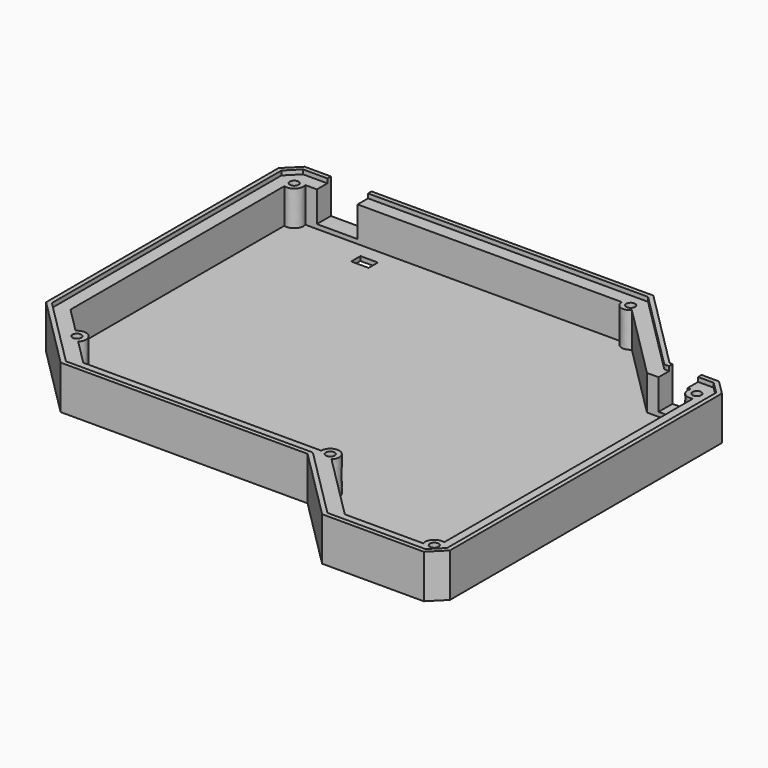
from build123d import *

# Parameters (mm, degrees)
PAD001_DEPTH    = 15
THICKNESS_T     = -1.5
PAD002_DEPTH    = 13.5
POCKET002_DEPTH = 12
POCKET003_DEPTH = 8
SKETCH006_W     = 14
SKETCH006_H     = 12
POCKET004_DEPTH = 10
SKETCH007_W     = 10
SKETCH007_H     = 12
POCKET005_DEPTH = 10
SKETCH011_W     = 6
SKETCH011_H     = 4
POCKET006_DEPTH = 15.001


with BuildPart() as part:
    # Sketch003 → Pad001 (new body)
    with BuildSketch(Plane.XY):
        with BuildLine():
            add(Edge.make_bspline(
                [(149.9997, -167.99814), (184.99836, -167.99814)],
                knots=[0, 0, 13779, 13779], degree=1))
            add(Edge.make_bspline(
                [(184.99836, -167.99814), (189.99962, -162.99942)],
                knots=[0, 0, 2783.879487, 2783.879487], degree=1))
            add(Edge.make_bspline(
                [(189.99962, -162.99942), (189.99962, -45.9994)],
                knots=[0, 0, 46063, 46063], degree=1))
            add(Edge.make_bspline(
                [(189.99962, -45.9994), (184.99836, -40.99814)],
                knots=[0, 0, 2784.586504, 2784.586504], degree=1))
            add(Edge.make_bspline(
                [(184.99836, -40.99814), (167.99814, -40.99814)],
                knots=[0, 0, 6693, 6693], degree=1))
            add(Edge.make_bspline(
                [(167.99814, -40.99814), (139.99972, -12.99972)],
                knots=[0, 0, 15588.876098, 15588.876098], degree=1))
            add(Edge.make_bspline(
                [(139.99972, -12.99972), (19.99996, -12.99972)],
                knots=[0, 0, 47244, 47244], degree=1))
            add(Edge.make_bspline(
                [(19.99996, -12.99972), (14.9987, -17.99844)],
                knots=[0, 0, 2783.879487, 2783.879487], degree=1))
            add(Edge.make_bspline(
                [(14.9987, -17.99844), (14.9987, -117.99824)],
                knots=[0, 0, 39370, 39370], degree=1))
            add(Edge.make_bspline(
                [(14.9987, -117.99824), (39.99992, -142.99946)],
                knots=[0, 0, 13920.104094, 13920.104094], degree=1))
            add(Edge.make_bspline(
                [(39.99992, -142.99946), (124.99848, -142.99946)],
                knots=[0, 0, 33464, 33464], degree=1))
            add(Edge.make_bspline(
                [(124.99848, -142.99946), (149.9997, -167.99814)],
                knots=[0, 0, 13919.397006, 13919.397006], degree=1))
        make_face()
    extrude(amount=PAD001_DEPTH)

    # Thickness
    thickness_openings = [part.faces().sort_by_distance(p)[0] for p in [
        (104.008372, -83.992523, 15),
    ]]
    offset(amount=THICKNESS_T, openings=thickness_openings)

    # Sketch003 → Pad002 (join)
    with BuildSketch(Plane.XY):
        with BuildLine():
            add(Edge.make_bspline(
                [(149.9997, -167.99814), (184.99836, -167.99814)],
                knots=[0, 0, 13779, 13779], degree=1))
            add(Edge.make_bspline(
                [(184.99836, -167.99814), (189.99962, -162.99942)],
                knots=[0, 0, 2783.879487, 2783.879487], degree=1))
            add(Edge.make_bspline(
                [(189.99962, -162.99942), (189.99962, -45.9994)],
                knots=[0, 0, 46063, 46063], degree=1))
            add(Edge.make_bspline(
                [(189.99962, -45.9994), (184.99836, -40.99814)],
                knots=[0, 0, 2784.586504, 2784.586504], degree=1))
            add(Edge.make_bspline(
                [(184.99836, -40.99814), (167.99814, -40.99814)],
                knots=[0, 0, 6693, 6693], degree=1))
            add(Edge.make_bspline(
                [(167.99814, -40.99814), (139.99972, -12.99972)],
                knots=[0, 0, 15588.876098, 15588.876098], degree=1))
            add(Edge.make_bspline(
                [(139.99972, -12.99972), (19.99996, -12.99972)],
                knots=[0, 0, 47244, 47244], degree=1))
            add(Edge.make_bspline(
                [(19.99996, -12.99972), (14.9987, -17.99844)],
                knots=[0, 0, 2783.879487, 2783.879487], degree=1))
            add(Edge.make_bspline(
                [(14.9987, -17.99844), (14.9987, -117.99824)],
                knots=[0, 0, 39370, 39370], degree=1))
            add(Edge.make_bspline(
                [(14.9987, -117.99824), (39.99992, -142.99946)],
                knots=[0, 0, 13920.104094, 13920.104094], degree=1))
            add(Edge.make_bspline(
                [(39.99992, -142.99946), (124.99848, -142.99946)],
                knots=[0, 0, 33464, 33464], degree=1))
            add(Edge.make_bspline(
                [(124.99848, -142.99946), (149.9997, -167.99814)],
                knots=[0, 0, 13919.397006, 13919.397006], degree=1))
        make_face()
    extrude(amount=PAD002_DEPTH)

    # Sketch004 (on Face41 of Pad002) → Pocket002 (cut)
    with BuildSketch(Plane.XY.offset(13.5)):
        with BuildLine():
            add(Edge.make_bspline(
                [(34.24936, -128.24968), (36.488327, -125.999883), (34.244128, -123.755811), (31.999929, -121.511738), (29.74848, -123.7488)],
                knots=[0, 0, 0, 1.568185, 1.568185, 3.13637, 3.13637, 3.13637], degree=2, weights=[1, 0.708029, 1, 0.708029, 1]))
            add(Edge.make_bspline(
                [(29.74848, -123.7488), (20.99818, -114.9985)],
                knots=[0, 0, 4871.965722, 4871.965722], degree=1))
            add(Edge.make_bspline(
                [(20.99818, -114.9985), (21.000009, -23.000005)],
                knots=[0, 0, 36220, 36220], degree=1))
            add(Edge.make_bspline(
                [(21.000009, -23.000005), (27.000065, -25.000031), (25.000001, -18.999987)],
                knots=[0, 0, 0, 2.214306, 2.214306, 2.214306], degree=2, weights=[1, 0.44721, 1]))
            add(Edge.make_bspline(
                [(25.000001, -18.999987), (133.999986, -18.999987)],
                knots=[0, 0, 42913, 42913], degree=1))
            add(Edge.make_bspline(
                [(133.999986, -18.999987), (133.999726, -26.243425), (138.99896, -20.99818)],
                knots=[0, 0, 0, 2.356274, 2.356274, 2.356274], degree=2, weights=[1, 0.382647, 1]))
            add(Edge.make_bspline(
                [(138.99896, -20.99818), (164.9984, -46.99762)],
                knots=[0, 0, 14475.890024, 14475.890024], degree=1))
            add(Edge.make_bspline(
                [(164.9984, -46.99762), (180, -47)],
                knots=[0, 0, 5906, 5906], degree=1))
            add(Edge.make_bspline(
                [(180, -47), (177.999919, -52.999873), (184, -51)],
                knots=[0, 0, 0, 2.214293, 2.214293, 2.214293], degree=2, weights=[1, 0.447215, 1]))
            add(Edge.make_bspline(
                [(184, -51), (184, -158)],
                knots=[0, 0, 42126, 42126], degree=1))
            add(Edge.make_bspline(
                [(184, -158), (177.999919, -155.999963), (179.999894, -161.99993)],
                knots=[0, 0, 0, 2.214293, 2.214293, 2.214293], degree=2, weights=[1, 0.447215, 1]))
            add(Edge.make_bspline(
                [(179.999894, -161.99993), (153, -162)],
                knots=[0, 0, 10630.00301, 10630.00301], degree=1))
            add(Edge.make_bspline(
                [(153, -162), (130.19786, -139.19962)],
                knots=[0, 0, 12694.688062, 12694.688062], degree=1))
            add(Edge.make_bspline(
                [(130.19786, -139.19962), (133.492869, -135.907293), (129.190631, -134.12529), (124.888393, -132.343287), (124.888752, -136.99998)],
                knots=[5.497727, 5.497727, 5.497727, 7.461291, 7.461291, 9.424855, 9.424855, 9.424855], degree=2, weights=[1, 0.555542, 1, 0.555542, 1]))
            add(Edge.make_bspline(
                [(42.99966, -136.99998), (124.888752, -136.99998)],
                knots=[0, 0, 32244, 32244], degree=1))
            add(Edge.make_bspline(
                [(34.24936, -128.24968), (42.99966, -136.99998)],
                knots=[0, 0, 4871.965722, 4871.965722], degree=1))
        make_face()
    extrude(amount=-POCKET002_DEPTH, mode=Mode.SUBTRACT)

    # Sketch005 (on Face41 of Pad002) → Pocket003 (cut)
    with BuildSketch(Plane.XY.offset(13.5)):
        with BuildLine():
            add(Edge.make_bspline(
                [(33.499936, -126.000002), (33.499936, -123.401927), (31.249936, -124.700964), (28.999937, -126.000002), (31.249936, -127.29904), (33.499936, -128.598077), (33.499936, -126.000002)],
                knots=[0, 0, 0, 2.094395, 2.094395, 4.18879, 4.18879, 6.283185, 6.283185, 6.283185], degree=2, weights=[1, 0.5, 1, 0.5, 1, 0.5, 1]))
        make_face()
        with BuildLine():
            add(Edge.make_bspline(
                [(23.500006, -20.000011), (23.500006, -17.401935), (21.250007, -18.700973), (19.000008, -20.000011), (21.250007, -21.299049), (23.500006, -22.598086), (23.500006, -20.000011)],
                knots=[0, 0, 0, 2.094395, 2.094395, 4.18879, 4.18879, 6.283185, 6.283185, 6.283185], degree=2, weights=[1, 0.5, 1, 0.5, 1, 0.5, 1]))
        make_face()
        with BuildLine():
            add(Edge.make_bspline(
                [(138.49998, -18.999987), (138.49998, -16.401912), (136.24998, -17.70095), (133.999981, -18.999987), (136.24998, -20.299025), (138.49998, -21.598063), (138.49998, -18.999987)],
                knots=[0, 0, 0, 2.094395, 2.094395, 4.18879, 4.18879, 6.283185, 6.283185, 6.283185], degree=2, weights=[1, 0.5, 1, 0.5, 1, 0.5, 1]))
        make_face()
        with BuildLine():
            add(Edge.make_bspline(
                [(184.499888, -160.999932), (184.499888, -158.401857), (182.249888, -159.700894), (179.999889, -160.999932), (182.249888, -162.29897), (184.499888, -163.598007), (184.499888, -160.999932)],
                knots=[0, 0, 0, 2.094395, 2.094395, 4.18879, 4.18879, 6.283185, 6.283185, 6.283185], degree=2, weights=[1, 0.5, 1, 0.5, 1, 0.5, 1]))
        make_face()
        with BuildLine():
            add(Edge.make_bspline(
                [(129.499998, -136.99998), (129.499998, -134.401905), (127.249998, -135.700942), (124.999999, -136.99998), (127.249998, -138.299018), (129.499998, -139.598055), (129.499998, -136.99998)],
                knots=[0, 0, 0, 2.094395, 2.094395, 4.18879, 4.18879, 6.283185, 6.283185, 6.283185], degree=2, weights=[1, 0.5, 1, 0.5, 1, 0.5, 1]))
        make_face()
        with BuildLine():
            add(Edge.make_bspline(
                [(184.499888, -47.999904), (184.499888, -45.401829), (182.249888, -46.700866), (179.999889, -47.999904), (182.249888, -49.298942), (184.499888, -50.597979), (184.499888, -47.999904)],
                knots=[0, 0, 0, 2.094395, 2.094395, 4.18879, 4.18879, 6.283185, 6.283185, 6.283185], degree=2, weights=[1, 0.5, 1, 0.5, 1, 0.5, 1]))
        make_face()
    extrude(amount=-POCKET003_DEPTH, mode=Mode.SUBTRACT)

    # Sketch006 → Pocket004 (cut)
    with BuildSketch(Plane(origin=(0, -12, 0), x_dir=(1, 0, 0), z_dir=(0, 1, 0))):
        with Locations((36, -9)):
            Rectangle(SKETCH006_W, SKETCH006_H)
    extrude(amount=-POCKET004_DEPTH, mode=Mode.SUBTRACT)

    # Sketch007 → Pocket005 (cut)
    with BuildSketch(Plane(origin=(0, -40, 0), x_dir=(1, 0, 0), z_dir=(0, 1, 0))):
        with Locations((174, -9)):
            Rectangle(SKETCH007_W, SKETCH007_H)
    extrude(amount=-POCKET005_DEPTH, mode=Mode.SUBTRACT)

    # Sketch011 (on Face2 of Pocket005) → Pocket006 (cut, through all)
    with BuildSketch(Plane(origin=(0, 0, 0), x_dir=(1, 0, 0), z_dir=(0, 0, -1))):
        with Locations((51, 26)):
            Rectangle(SKETCH011_W, SKETCH011_H)
    extrude(amount=-POCKET006_DEPTH, mode=Mode.SUBTRACT)


solid = part.part
